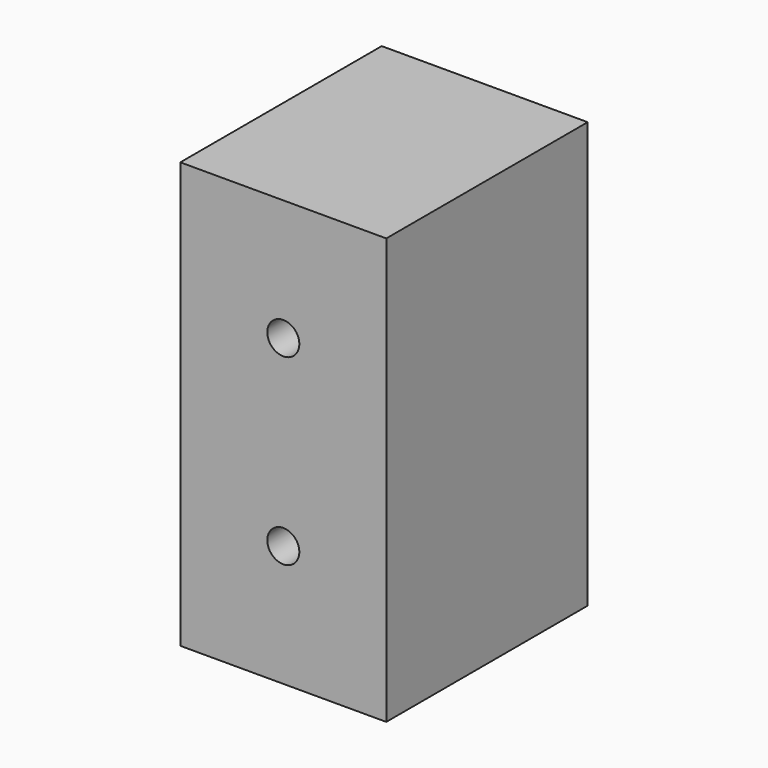
from build123d import *

# Parameters (mm, degrees)
F1_W           = 57.15
F1_H           = 118.11
F2_DEPTH       = 34.925
F4_D           = 3.81
F4_CBORE_D     = 8.89
F4_CBORE_DEPTH = 12.7


with BuildPart() as f2:
    # F1 (on Front) → F2 (new body, symmetric)
    with BuildSketch(Plane.XZ):
        Rectangle(F1_W, F1_H)
    extrude(amount=F2_DEPTH, both=True)

    # F4 (through all)
    with Locations(Plane.XZ.offset(34.925)):
        with Locations((0, -25.4)):
            CounterBoreHole(F4_D / 2, F4_CBORE_D / 2, F4_CBORE_DEPTH)

    # F5: F2 across plane


with BuildPart() as f2_1:
    add(f2.part)
    add(f2.part.mirror(Plane.XY), mode=Mode.INTERSECT)


solid = f2_1.part
